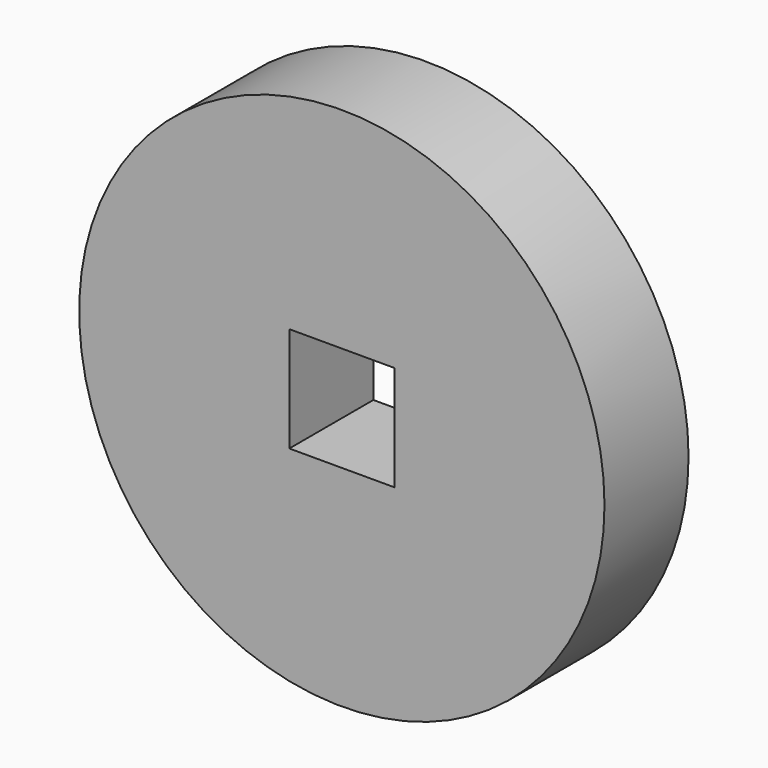
from build123d import *

# Parameters (mm, degrees)
F0_R     = 15.875
F0_W     = 6.35
F0_H     = 6.35
F1_DEPTH = 6.35


with BuildPart() as f1:
    # F0 (on Front) → F1 (new body)
    with BuildSketch(Plane.XZ):
        Circle(F0_R)
        Rectangle(F0_W, F0_H, mode=Mode.SUBTRACT)
    extrude(amount=F1_DEPTH)


solid = f1.part
